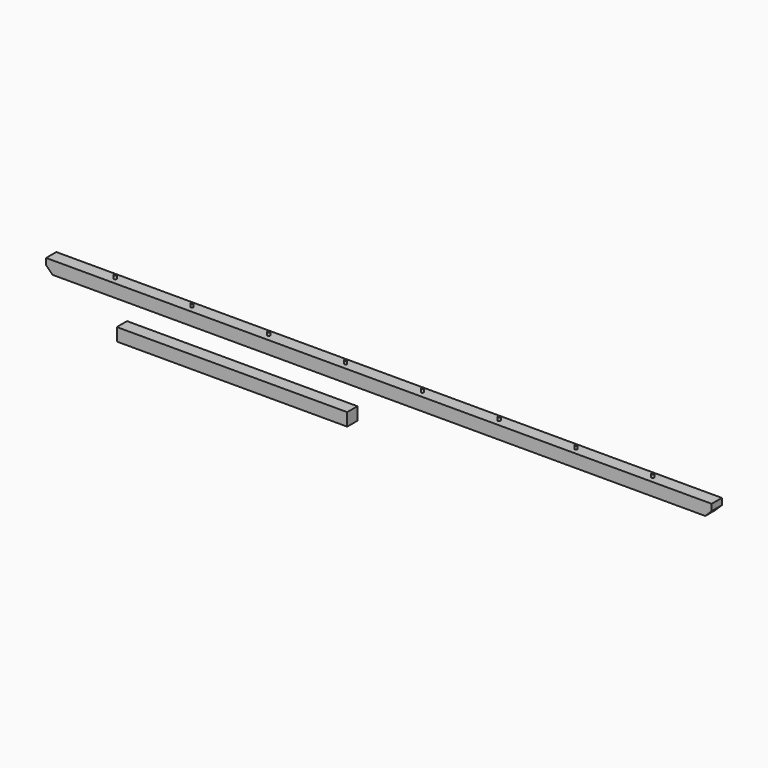
from build123d import *

# Parameters (mm, degrees)
F0_W     = 5200
F0_H     = 100
F0_W_2   = 1800
F1_DEPTH = 100
F2_R     = 10
F3_DEPTH = 50
F4_R     = 10
F5_DEPTH = 25
F6_SIZE  = 50


with BuildPart() as f1:
    # F0 (on Top) → F1 (new body)
    with BuildSketch(Plane.XY):
        Rectangle(F0_W, F0_H)
        with Locations((-792.875862, -443.347555)):
            Rectangle(F0_W_2, F0_H)
    extrude(amount=F1_DEPTH)

    # F2 (on face) → F3 (cut)
    with BuildSketch(Plane(origin=(0, 0, 0), x_dir=(1, 0, 0), z_dir=(0, 0, -1))):
        with Locations((-2100, 0)):
            Circle(F2_R)
        with Locations((2100, 0)):
            Circle(F2_R)
    extrude(amount=-F3_DEPTH, mode=Mode.SUBTRACT)

    # F4 (on face) → F5 (join)
    with BuildSketch(Plane.XY.offset(100)):
        with Locations((-2100, 0)):
            Circle(F4_R)
        with Locations((-1500, 0)):
            Circle(F4_R)
        with Locations((-900, 0)):
            Circle(F4_R)
        with Locations((-300, 0)):
            Circle(F4_R)
        with Locations((300, 0)):
            Circle(F4_R)
        with Locations((900, 0)):
            Circle(F4_R)
        with Locations((1500, 0)):
            Circle(F4_R)
        with Locations((1500, 0)):
            Circle(F4_R)
        with Locations((2100, 0)):
            Circle(F4_R)
    extrude(amount=F5_DEPTH)

    # F6
    f6_edges = [f1.edges().sort_by_distance(p)[0] for p in [
        (-2600, 0, 0),
        (2600, 0, 0),
    ]]
    chamfer(f6_edges, length=F6_SIZE)


solid = f1.part
